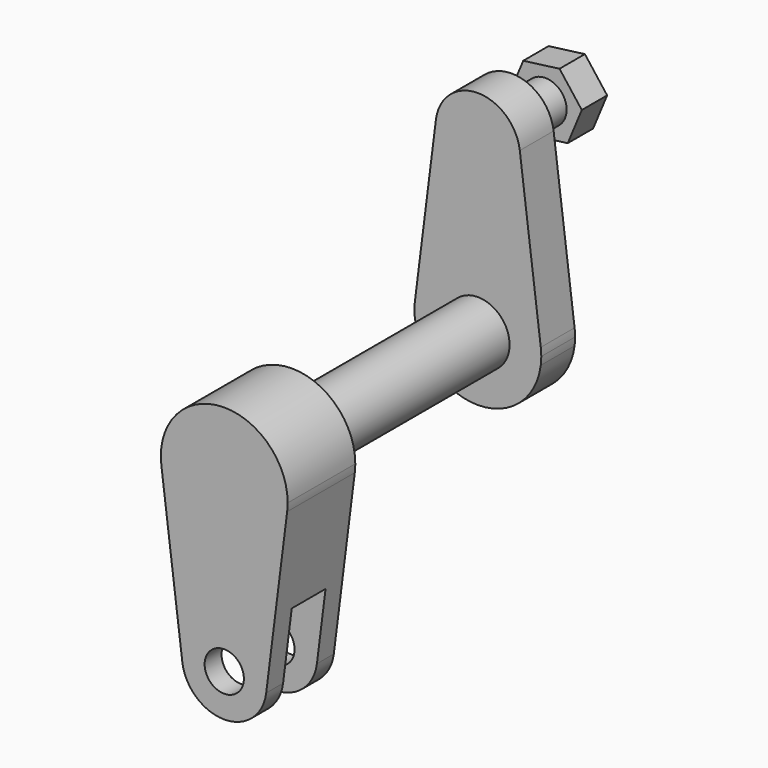
from build123d import *

# Parameters (mm, degrees)
F0_R      = 1.4732
F1_DEPTH  = 3.175
F2_R      = 1.5875
F3_DEPTH  = 3.175
F5_DEPTH  = 2.38125
F6_R      = 2.38125
F7_DEPTH  = 17.4625
F8_R      = 1.4732
F9_DEPTH  = 6.35
F11_R     = 1.4732
F12_DEPTH = 1.5875


with BuildPart() as f1:
    # F0 (on Front) → F1 (new body)
    with BuildSketch(Plane.XZ):
        with BuildLine():
            ThreePointArc((30.9057507299, 33.2053364545), (30.8777447649, 32.9082655755), (30.868397212, 32.6100239545))
            ThreePointArc((30.868397212, 32.6100239545), (30.8777447649, 32.3117823335), (30.9057507299, 32.0147114545))
            ThreePointArc((30.9057507299, 32.0147114545), (35.630897212, 27.8475239545), (40.3560436941, 32.0147114545))
            ThreePointArc((40.3560436941, 32.0147114545), (40.3840496591, 32.3117823335), (40.393397212, 32.6100239545))
            ThreePointArc((40.393397212, 32.6100239545), (40.3840496591, 32.9082655755), (40.3560436941, 33.2053364545))
            ThreePointArc((40.3560436941, 33.2053364545), (35.630897212, 37.3725239545), (30.9057507299, 33.2053364545))
        make_face()
        with BuildLine():
            Line((32.4807995573, 45.7068989545), (30.9057507299, 33.2053364545))
            ThreePointArc((30.9057507299, 33.2053364545), (35.630897212, 37.3725239545), (40.3560436941, 33.2053364545))
            Line((40.3560436941, 33.2053364545), (38.7809948668, 45.7068989545))
            ThreePointArc((38.7809948668, 45.7068989545), (38.7996655101, 45.5088517018), (38.805897212, 45.3100239545))
            ThreePointArc((38.805897212, 45.3100239545), (35.4320694647, 42.1412556564), (32.4807995573, 45.7068989545))
        make_face()
        with BuildLine():
            ThreePointArc((38.7809948668, 45.7068989545), (35.630897212, 48.4850239545), (32.4807995573, 45.7068989545))
            ThreePointArc((32.4807995573, 45.7068989545), (35.4320694647, 42.1412556564), (38.805897212, 45.3100239545))
            ThreePointArc((38.805897212, 45.3100239545), (38.7996655101, 45.5088517018), (38.7809948668, 45.7068989545))
        make_face()
        with Locations((35.630897212, 45.3100239545)):
            Circle(F0_R, mode=Mode.SUBTRACT)
        with Locations((35.630897212, 45.3100239545)):
            Circle(F0_R)
    extrude(amount=F1_DEPTH)

    # F2 (on face) → F3 (join)
    with BuildSketch(Plane(origin=(0, 0, 0), x_dir=(-1, 0, 0), z_dir=(0, 1, 0))):
        with Locations((-35.630897212, 45.3100239545)):
            Circle(F2_R)
    extrude(amount=F3_DEPTH)

    # F4 (on face) → F5 (join)
    with BuildSketch(Plane(origin=(0, 3.175, 0), x_dir=(-1, 0, 0), z_dir=(0, 1, 0))):
        Polygon((-34.5753285935, 42.7710785747), (-32.904321705, 44.9547005036), (-33.9598903235, 47.4936458835), (-36.6864658305, 47.8489693343), (-38.357472719, 45.6653474054), (-37.3019041005, 43.1264020256), align=None)
    extrude(amount=F5_DEPTH)

    # F6 (on face) → F7 (join)
    with BuildSketch(Plane.XZ.offset(3.175)):
        with Locations((35.630897212, 32.6100239545)):
            Circle(F6_R)
    extrude(amount=F7_DEPTH)

    # F8 (on face) → F9 (join)
    with BuildSketch(Plane.XZ.offset(20.6375)):
        with BuildLine():
            ThreePointArc((40.3560436941, 32.0147114545), (40.3840496591, 32.3117823335), (40.393397212, 32.6100239545))
            ThreePointArc((40.393397212, 32.6100239545), (35.332655591, 37.3631764016), (30.9057507299, 32.0147114545))
            ThreePointArc((30.9057507299, 32.0147114545), (35.630897212, 27.8475239545), (40.3560436941, 32.0147114545))
        make_face()
        with BuildLine():
            ThreePointArc((40.3560436941, 32.0147114545), (35.630897212, 27.8475239545), (30.9057507299, 32.0147114545))
            Line((30.9057507299, 32.0147114545), (32.4807995573, 19.5131489545))
            ThreePointArc((32.4807995573, 19.5131489545), (35.4320694647, 23.0787922526), (38.805897212, 19.9100239545))
            ThreePointArc((38.805897212, 19.9100239545), (38.7996655101, 19.7111962072), (38.7809948668, 19.5131489545))
            Line((38.7809948668, 19.5131489545), (40.3560436941, 32.0147114545))
        make_face()
        with BuildLine():
            ThreePointArc((38.805897212, 19.9100239545), (35.4320694647, 23.0787922526), (32.4807995573, 19.5131489545))
            ThreePointArc((32.4807995573, 19.5131489545), (35.630897212, 16.7350239545), (38.7809948668, 19.5131489545))
            ThreePointArc((38.7809948668, 19.5131489545), (38.7996655101, 19.7111962072), (38.805897212, 19.9100239545))
        make_face()
        with Locations((35.630897212, 19.9100239545)):
            Circle(F8_R, mode=Mode.SUBTRACT)
    extrude(amount=F9_DEPTH)

    # F11 (on offset) → F12 (cut, symmetric)
    with BuildSketch(Plane.XZ.offset(23.8125)):
        with BuildLine():
            Line((38.7809948668, 19.5131489545), (39.4310150177, 24.6725239545))
            Line((39.4310150177, 24.6725239545), (31.8307794063, 24.6725239545))
            Line((31.8307794063, 24.6725239545), (32.4807995573, 19.5131489545))
            ThreePointArc((32.4807995573, 19.5131489545), (35.630897212, 16.7350239545), (38.7809948668, 19.5131489545))
        make_face()
        with Locations((35.630897212, 19.9100239545)):
            Circle(F11_R, mode=Mode.SUBTRACT)
    extrude(amount=F12_DEPTH, both=True, mode=Mode.SUBTRACT)


solid = f1.part
